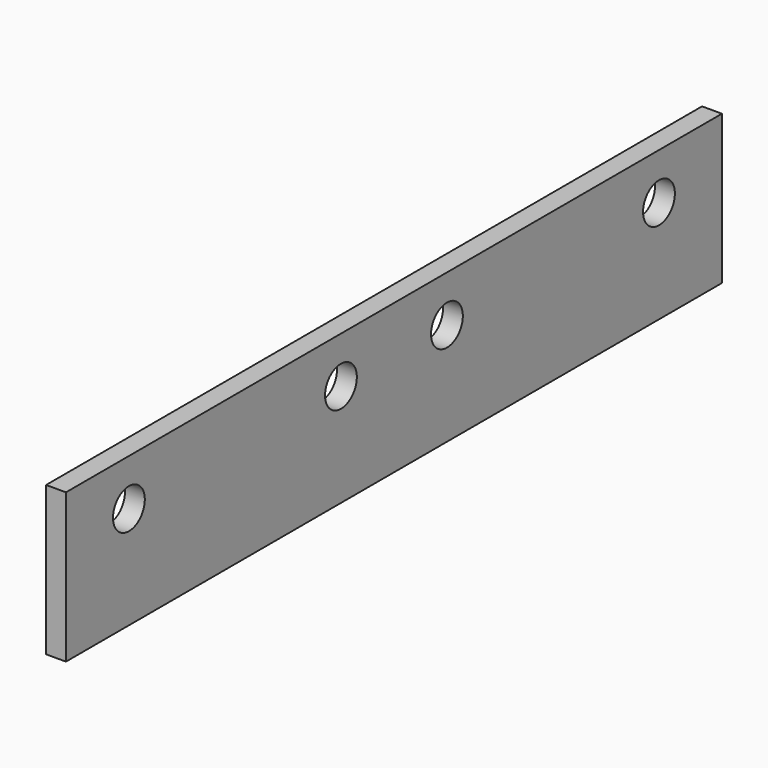
from build123d import *

# Parameters (mm, degrees)
PAD_DEPTH    = 12
SKETCH001_R  = 12
POCKET_DEPTH = 20


with BuildPart() as part:
    # Sketch → Pad (new body)
    with BuildSketch(Plane.YZ):
        Polygon((0, 0), (0, 90), (495, 90), (495, 0), (247.5, 0), align=None)
    extrude(amount=-PAD_DEPTH)

    # Sketch001 (on Face7 of Pad) → Pocket (cut)
    with BuildSketch(Plane(origin=(-12, 0, 0), x_dir=(0, -1, 0), z_dir=(-1, 0, 0))):
        with Locations((-207.5, 62)):
            Circle(SKETCH001_R)
        with Locations((-287.5, 62)):
            Circle(SKETCH001_R)
        with Locations((-447.5, 62)):
            Circle(SKETCH001_R)
        with Locations((-47.5, 62)):
            Circle(SKETCH001_R)
    extrude(amount=-POCKET_DEPTH, mode=Mode.SUBTRACT)


solid = part.part
